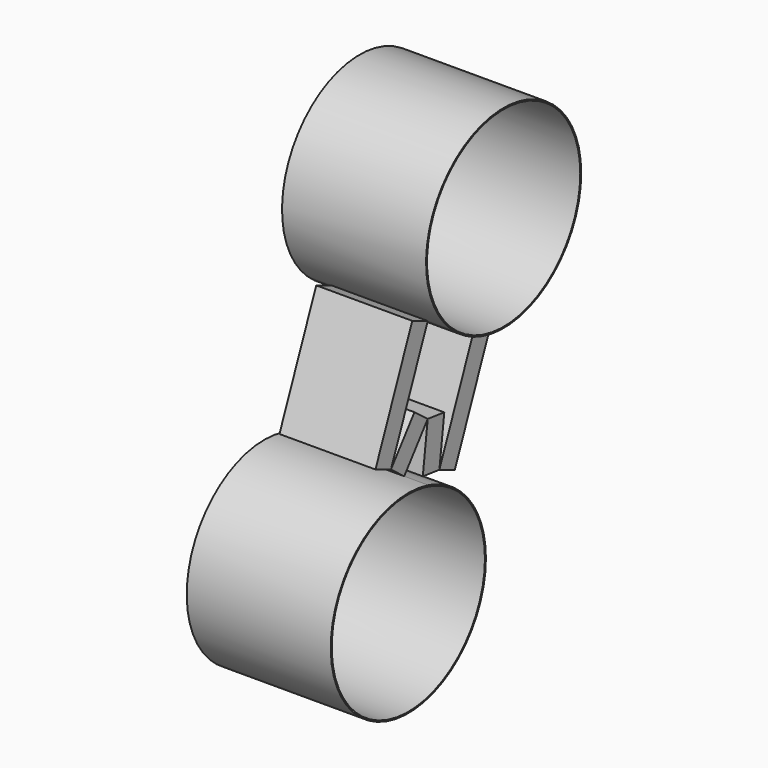
from build123d import *

# Parameters (mm, degrees)
F0_R     = 101.346
F1_DEPTH = 76.2
F2_DEPTH = 50.8


with BuildPart() as f1:
    # F0 (on Right) → F1 (new body, symmetric)
    with BuildSketch(Plane.YZ):
        with BuildLine():
            ThreePointArc((-450.457604, 144.951468), (-420.703591, 126.249292), (-386.384052, 118.683457))
            ThreePointArc((-386.384052, 118.683457), (-310.865093, 147.025184), (-279.162597, 221.196057))
            ThreePointArc((-279.162597, 221.196057), (-423.506755, 314.94468), (-450.457604, 144.951468))
        make_face()
        with Locations((-381.778597, 221.196057)):
            Circle(F0_R, mode=Mode.SUBTRACT)
        with BuildLine():
            ThreePointArc((-405.22827, -86.306307), (-419.098488, -34.787091), (-456.959571, 2.804808))
            ThreePointArc((-456.959571, 2.804808), (-468.919275, 8.640458), (-481.533602, 12.879338))
            ThreePointArc((-481.533602, 12.879338), (-589.176733, -148.876859), (-405.22827, -86.306307))
        make_face()
        with Locations((-507.84427, -86.306307)):
            Circle(F0_R, mode=Mode.SUBTRACT)
    extrude(amount=F1_DEPTH, both=True)


with BuildPart() as f2:
    # F0 (on Right) → F2 (new body, symmetric)
    with BuildSketch(Plane.YZ):
        Polygon((-499.113848, 26.268011), (-450.457604, 144.951468), (-470.904061, 153.333831), (-519.560305, 34.650374), align=None)
        Polygon((-468.027503, 67.086513), (-499.113848, 26.268011), (-481.533602, 12.879338), (-450.447258, 53.69784), align=None)
        Polygon((-456.959571, 2.804808), (-435.040295, 0), (-428.527982, 50.893031), (-450.447258, 53.69784), align=None)
        Polygon((-414.593838, -8.382363), (-365.937595, 110.301094), (-386.384052, 118.683457), (-435.040295, 0), align=None)
    extrude(amount=F2_DEPTH, both=True)


solid = Compound([f1.part, f2.part])
